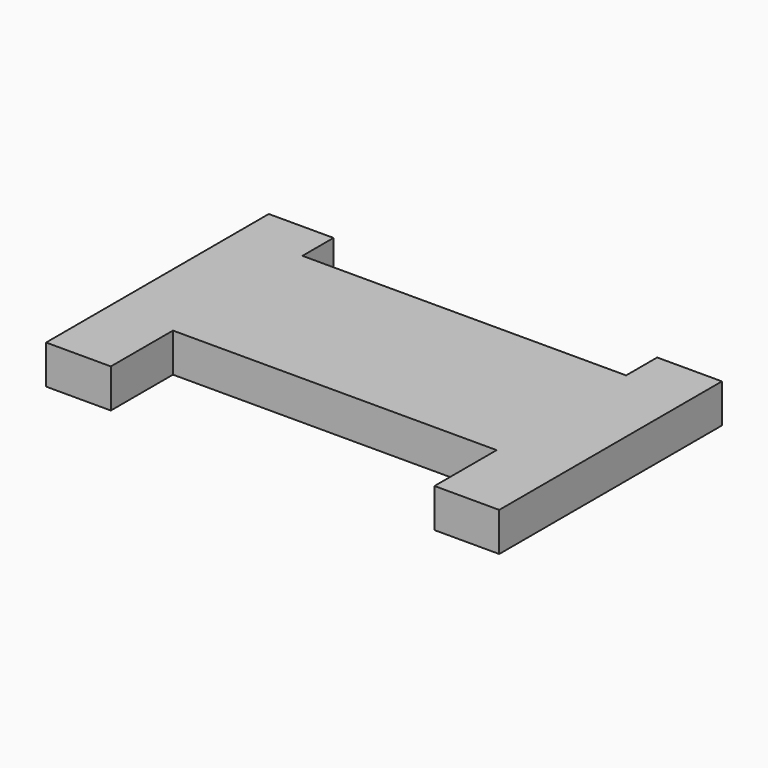
from build123d import *

# Parameters (mm, degrees)
F0_W      = 20
F0_H      = 12
F1_DEPTH  = 12
F1_FACE_W = 20
F1_FACE_H = 12
F2_DEPTH  = 12


with BuildPart() as f1:
    # F0 (on Top) → F1 (new body)
    with BuildSketch(Plane.XY):
        Polygon((70, -25), (70, 25), (50, 25), (-50, 25), (-70, 25), (-70, -25), (-50, -25), (50, -25), align=None)
        with Locations((60, 31)):
            Rectangle(F0_W, F0_H)
        with Locations((60, -31)):
            Rectangle(F0_W, F0_H)
        with Locations((-60, 31)):
            Rectangle(F0_W, F0_H)
        with Locations((-60, -31)):
            Rectangle(F0_W, F0_H)
    extrude(amount=F1_DEPTH)

    # F1_face (on face) → F2 (join)
    with BuildSketch(Plane(origin=(-60, -37, 6), x_dir=(1, 0, 0), z_dir=(0, -1, 0))):
        Rectangle(F1_FACE_W, F1_FACE_H)
        with Locations((120, 0)):
            Rectangle(F1_FACE_W, F1_FACE_H)
    extrude(amount=F2_DEPTH)


solid = f1.part
